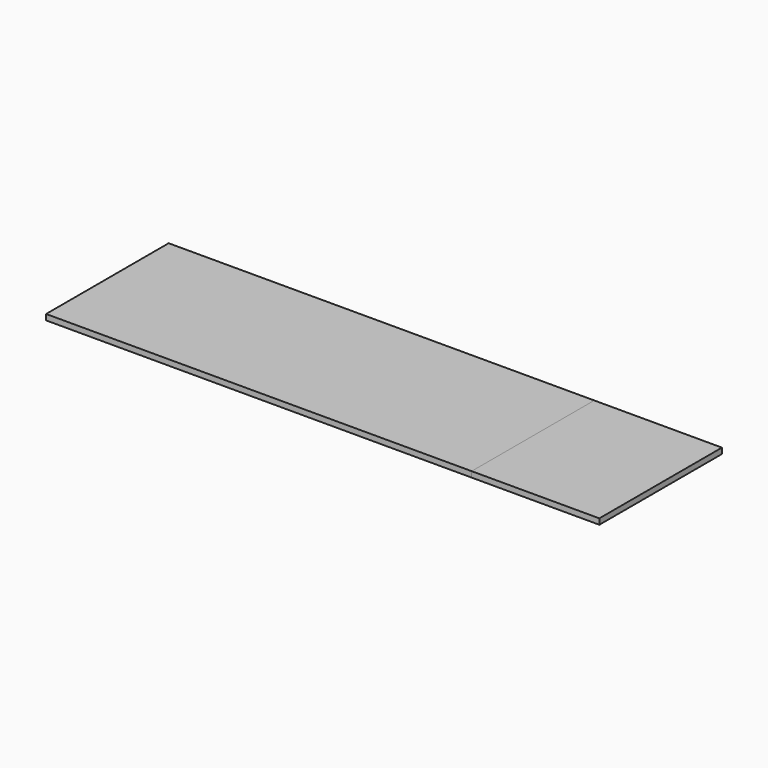
from build123d import *

# Parameters (mm, degrees)
F0_W     = 195
F0_H     = 54
F1_DEPTH = 2
F2_DEPTH = 150
F3_DEPTH = 45


with BuildPart() as f1:
    # F0 (on Top) → F1 (new body)
    with BuildSketch(Plane.XY):
        with Locations((0, 27)):
            Rectangle(F0_W, F0_H)
    extrude(amount=F1_DEPTH)


with BuildPart() as f2:
    # F2 (new): a face of the model
    f2_faces = [f1.part.faces().sort_by_distance(p)[0] for p in [
        (-97.5, 27, 1),
    ]]
    extrude(f2_faces, amount=-F2_DEPTH)


with BuildPart() as f3:
    # F3 (new, through all): a face of the model
    f3_faces = [f1.part.faces().sort_by_distance(p)[0] for p in [
        (97.5, 27, 1),
    ]]
    extrude(f3_faces, amount=-F3_DEPTH)


solid = Compound([f1.part, f2.part, f3.part])
